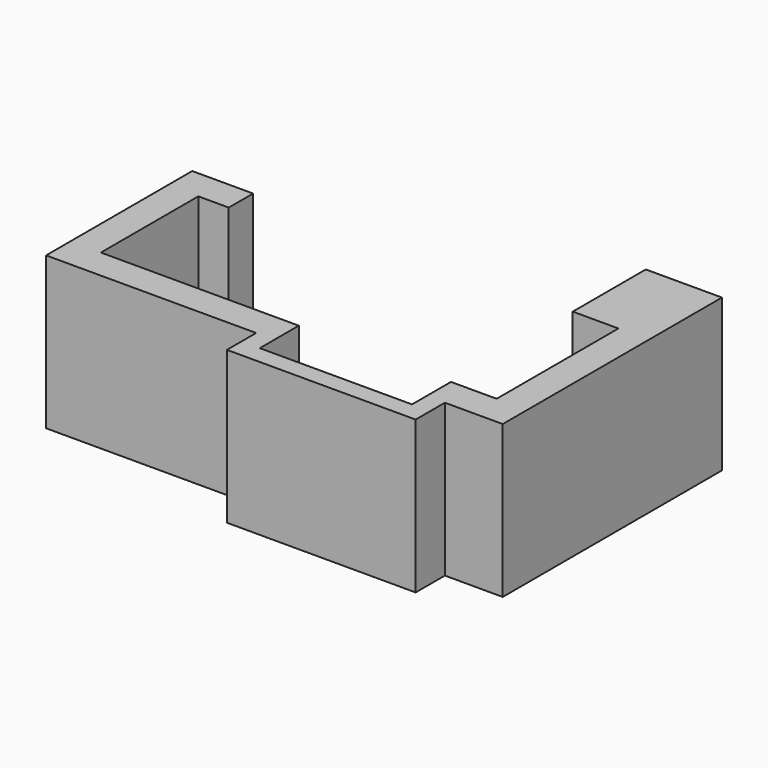
from build123d import *

# Parameters (mm, degrees)
F0_W     = 3
F0_H     = 6
F1_DEPTH = 5


with BuildPart() as f1:
    # F0 (on Top) → F1 (new body, symmetric)
    with BuildSketch(Plane.XY):
        Polygon((-28, 10), (-26, 10), (-24, 10), (-24, 12), (-28, 12), align=None)
        Polygon((-26, 0), (-26, 2), (-26, 10), (-28, 10), (-28, 0), align=None)
        Polygon((-14.2, 0), (-13, 0), (-13, 2), (-26, 2), (-26, 0), align=None)
        Polygon((-1.8, -2.4), (-1.8, 0), (-3, 0), (-3, -1.2), (-13, -1.2), (-13, 0), (-14.2, 0), (-14.2, -2.4), align=None)
        Polygon((-1.8, 0), (0, 0), (0, 2), (-3, 2), (-3, 0), align=None)
        Polygon((0, 2), (0, 0), (2, 0), (2, 18), (0, 18), (0, 12), align=None)
        with Locations((-1.5, 15)):
            Rectangle(F0_W, F0_H)
    extrude(amount=F1_DEPTH, both=True)


solid = f1.part
